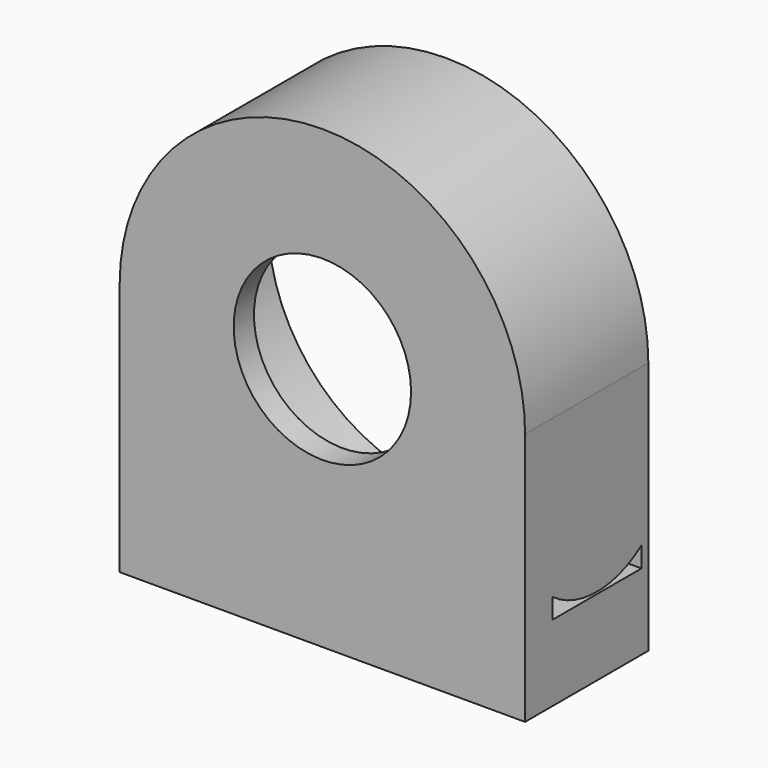
from build123d import *

# Parameters (mm, degrees)
F0_R      = 35
F1_DEPTH  = 25.4
F3_DEPTH  = 25
F5_DEPTH  = 40
F6_R      = 17.5
F7_DEPTH  = 5
F8_DEPTH  = 5
F9_W      = 80
F9_H      = 25
F10_DEPTH = 25


with BuildPart() as f1:
    # F0 (on Front) → F1 (new body)
    with BuildSketch(Plane.XZ):
        with BuildLine():
            Line((40, -50), (40, 0))
            ThreePointArc((40, 0), (0, 40), (-40, 0))
            Line((-40, 0), (-40, -50))
            Line((-40, -50), (40, -50))
        make_face()
        Circle(F0_R, mode=Mode.SUBTRACT)
    extrude(amount=F1_DEPTH)

    # F2 (on face) → F3 (join)
    with BuildSketch(Plane.XZ.offset(25.4)):
        with BuildLine():
            Line((-40, -25), (-40, -50))
            Line((-40, -50), (40, -50))
            Line((40, -50), (40, -25))
            Line((40, -25), (24.4948974278, -25))
            ThreePointArc((24.4948974278, -25), (0, -35), (-24.4948974278, -25))
            Line((-24.4948974278, -25), (-40, -25))
        make_face()
        with BuildLine():
            Line((24.4948974278, -25), (-24.4948974278, -25))
            ThreePointArc((-24.4948974278, -25), (0, -35), (24.4948974278, -25))
        make_face()
    extrude(amount=F3_DEPTH)

    # F4 (on face) → F5 (cut)
    with BuildSketch(Plane.YZ.offset(40)):
        with BuildLine():
            Line((-23.7, -35), (-1.7, -35))
            Line((-1.7, -35), (-1.7, -31))
            ThreePointArc((-1.7, -31), (-12.7, -34.6), (-23.7, -31))
            Line((-23.7, -31), (-23.7, -35))
        make_face()
    extrude(amount=-F5_DEPTH, mode=Mode.SUBTRACT)

    # F6 (on face) → F7 (join)
    with BuildSketch(Plane.XZ.offset(25.4)):
        with BuildLine():
            Line((-40, 0), (-40, -25))
            Line((-40, -25), (40, -25))
            Line((40, -25), (40, 0))
            ThreePointArc((40, 0), (0, 40), (-40, 0))
        make_face()
        Circle(F6_R, mode=Mode.SUBTRACT)
    extrude(amount=F7_DEPTH)

    # F8 (add): a face of the model
    f8_faces = [f1.faces().sort_by_distance(p)[0] for p in [
        (0, -50.4, -37.5),
    ]]
    extrude(f8_faces, amount=F8_DEPTH)

    # F9 (on face) → F10 (cut)
    with BuildSketch(Plane.XY.offset(-25)):
        with Locations((0, -42.9)):
            Rectangle(F9_W, F9_H)
    extrude(amount=-F10_DEPTH, mode=Mode.SUBTRACT)


solid = f1.part
